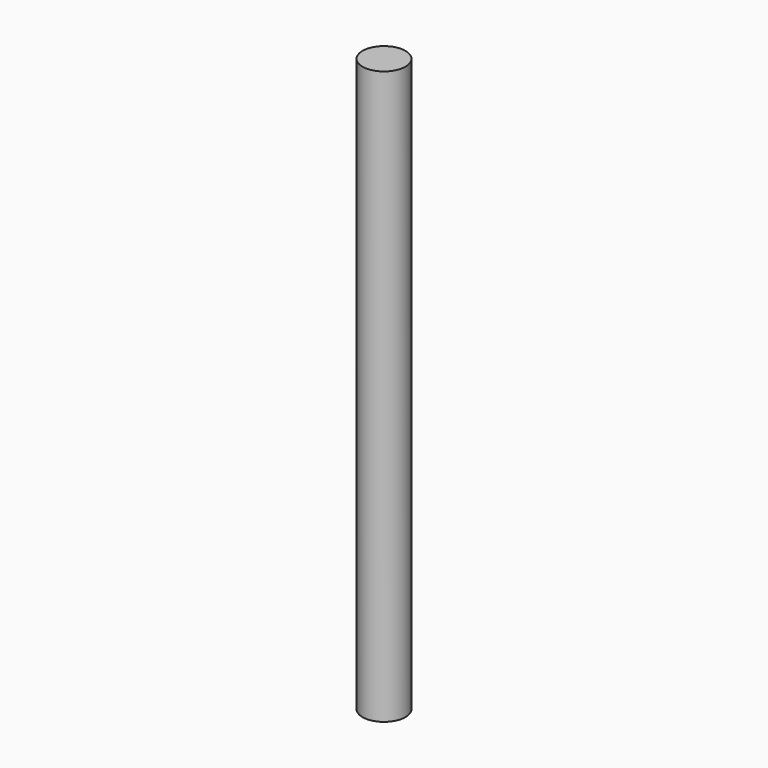
from build123d import *

# Parameters (mm, degrees)
F0_W = 3.81
F0_H = 101.6


with BuildPart() as f1:
    # F0 (on Front) → F1 (revolve)
    with BuildSketch(Plane.XZ):
        Rectangle(F0_W, F0_H)
    revolve(axis=Axis((1.905, 0, 0), (0, 0, -1)))


solid = f1.part
